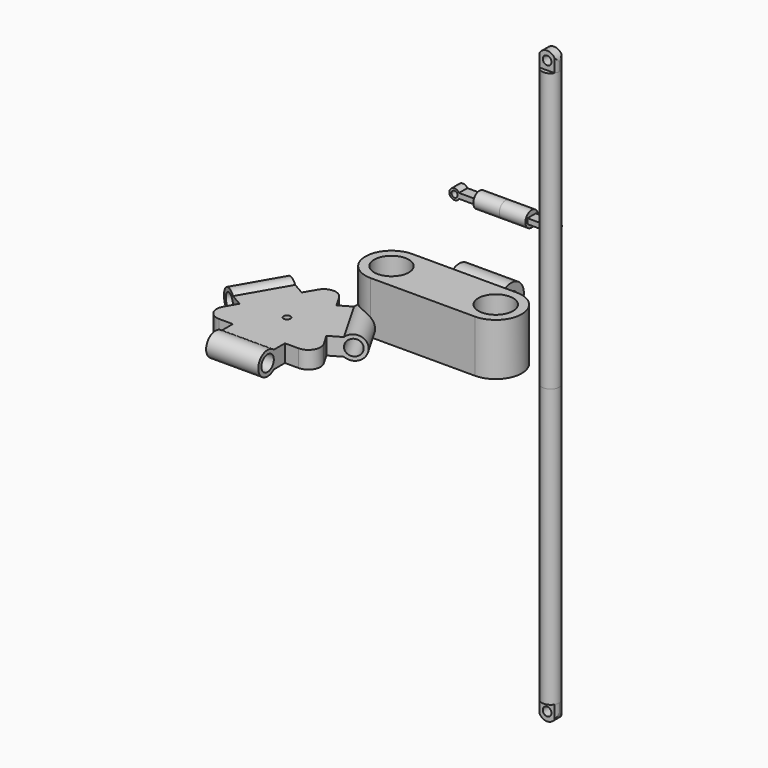
from build123d import *

# Parameters (mm, degrees)
F0_R      = 10
F1_DEPTH  = 30
F2_W      = 30
F2_H      = 15
F3_DEPTH  = 10
F4_R      = 9
F4_R_2    = 4.5
F5_DEPTH  = 30
F6_R      = 4.5
F7_DEPTH  = 15
F8_W      = 6
F8_H      = 3
F9_DEPTH  = 10
F10_R     = 3
F10_R_2   = 1.75
F11_DEPTH = 6
F13_R     = 5
F14_DEPTH = 160
F16_R     = 2.5
F17_DEPTH = 2.5
F15_R     = 5
F18_DEPTH = 200
F21_DEPTH = 10
F22_W     = 30
F22_H     = 10
F23_DEPTH = 8
F24_R     = 6.7268120235
F24_R_2   = 4.5
F25_DEPTH = 30
F26_R     = 2
F27_DEPTH = 10
F28_COUNT = 3


with BuildPart() as f1:
    # F0 (on Top) → F1 (new body)
    with BuildSketch(Plane.XY):
        with BuildLine():
            ThreePointArc((30, -15), (45, 0), (30, 15))
            Line((30, 15), (-30, 15))
            ThreePointArc((-30, 15), (-45, 0), (-30, -15))
            Line((-30, -15), (30, -15))
        make_face()
        with Locations((-30, 0)):
            Circle(F0_R, mode=Mode.SUBTRACT)
        with Locations((30, 0)):
            Circle(F0_R, mode=Mode.SUBTRACT)
    extrude(amount=F1_DEPTH)

    # F2 (on face) → F3 (join)
    with BuildSketch(Plane(origin=(0, 15, 0), x_dir=(-1, 0, 0), z_dir=(0, 1, 0))):
        with Locations((0, 15)):
            Rectangle(F2_W, F2_H)
    extrude(amount=F3_DEPTH)

    # F4 (on face) → F5 (join, through all)
    with BuildSketch(Plane(origin=(-15, 0, 0), x_dir=(0, -1, 0), z_dir=(-1, 0, 0))):
        with Locations((-30, 15)):
            Circle(F4_R)
        with Locations((-30, 15)):
            Circle(F4_R_2, mode=Mode.SUBTRACT)
    extrude(amount=-F5_DEPTH)


with BuildPart() as f7:
    # F6 (on Right) → F7 (new body)
    with BuildSketch(Plane.YZ):
        with Locations((44.5834584534, 50.4704043269)):
            Circle(F6_R)
    extrude(amount=-F7_DEPTH)

    # F8 (on face) → F9 (join)
    with BuildSketch(Plane(origin=(-15, 0, 0), x_dir=(0, -1, 0), z_dir=(-1, 0, 0))):
        with Locations((-44.5834584534, 50.4704043269)):
            Rectangle(F8_W, F8_H)
    extrude(amount=F9_DEPTH)

    # F10 (on face) → F11 (join, through all)
    with BuildSketch(Plane(origin=(0, 47.5834584534, 0), x_dir=(-1, 0, 0), z_dir=(0, 1, 0))):
        with Locations((27, 50.4704043269)):
            Circle(F10_R)
        with Locations((27, 50.4704043269)):
            Circle(F10_R_2, mode=Mode.SUBTRACT)
    extrude(amount=-F11_DEPTH)

    # F12: F7 across plane


with BuildPart() as f7_1:
    add(f7.part)
    add(f7.part.mirror(Plane.YZ))


with BuildPart() as f14:
    # F13 (on Top) → F14 (new body)
    with BuildSketch(Plane.XY):
        with Locations((61.5915991366, 0)):
            Circle(F13_R)
    extrude(amount=F14_DEPTH)

    # F16 (on Front) → F17 (join, symmetric)
    with BuildSketch(Plane.XZ):
        with BuildLine():
            Line((56.5915991366, 160), (66.5915991366, 160))
            Line((66.5915991366, 160), (66.5915991366, 165))
            ThreePointArc((66.5915991366, 165), (61.5915991366, 170), (56.5915991366, 165))
            Line((56.5915991366, 165), (56.5915991366, 160))
        make_face()
        with Locations((61.5915991366, 165)):
            Circle(F16_R, mode=Mode.SUBTRACT)
    extrude(amount=F17_DEPTH, both=True)

    # F15 (on face) → F18 (intersect, symmetric)
    with BuildSketch(Plane.XY.offset(160)):
        with Locations((61.5915991366, 0)):
            Circle(F15_R)
    extrude(amount=F18_DEPTH, both=True, mode=Mode.INTERSECT)

    # F19: F14 across plane


with BuildPart() as f14_1:
    add(f14.part)
    add(f14.part.mirror(Plane.XY))


with BuildPart() as f21:
    # F20 (on Top) → F21 (new body)
    with BuildSketch(Plane.XY):
        with BuildLine():
            ThreePointArc((-53.3706004575, -8.5372778672), (-59.432778284, -5.0372778672), (-65.4949561104, -8.5372778672))
            Line((-65.4949561104, -8.5372778672), (-88.3706004575, -48.1590561321))
            ThreePointArc((-88.3706004575, -48.1590561321), (-88.3706004575, -55.1590561321), (-82.308422631, -58.6590561321))
            Line((-82.308422631, -58.6590561321), (-36.5571339369, -58.6590561321))
            ThreePointArc((-36.5571339369, -58.6590561321), (-30.4949561104, -55.1590561321), (-30.4949561104, -48.1590561321))
            Line((-30.4949561104, -48.1590561321), (-53.3706004575, -8.5372778672))
        make_face()
    extrude(amount=F21_DEPTH)

    # F22 (on face) → F23 (join)
    with BuildSketch(Plane(origin=(-45.4244673267, 26.2258284389, 0), x_dir=(-0.5, -0.8660254038, 0), z_dir=(-0.8660254038, 0.5, 0))):
        with Locations((63.0166219144, 5)):
            Rectangle(F22_W, F22_H)
    extrude(amount=F23_DEPTH)

    # F24 (on face) → F25 (join, through all)
    with BuildSketch(Plane(origin=(-39.0083109572, -67.5643764953, 0), x_dir=(0.8660254038, -0.5, 0), z_dir=(-0.5, -0.8660254038, 0))):
        with Locations((-64.9516568778, 5)):
            Circle(F24_R)
        with Locations((-64.9516568778, 5)):
            Circle(F24_R_2, mode=Mode.SUBTRACT)
    extrude(amount=-F25_DEPTH)

    # F26 (on face) → F27 (cut, through all)
    with BuildSketch(Plane.XY.offset(10)):
        with Locations((-59.432778284, -38.4517967105)):
            Circle(F26_R)
    extrude(amount=-F27_DEPTH, mode=Mode.SUBTRACT)

    # F28: F21 ×3 about axis
    f28_axis = Axis((-59.432778284, -38.4517967105, 10), (0, 0, 1))


with BuildPart() as f21_1:
    add(f21.part)
    for i in range(1, F28_COUNT):
        add(f21.part.rotate(f28_axis, i * 360 / F28_COUNT))


solid = Compound([f1.part, f7_1.part, f14_1.part, f21_1.part])
